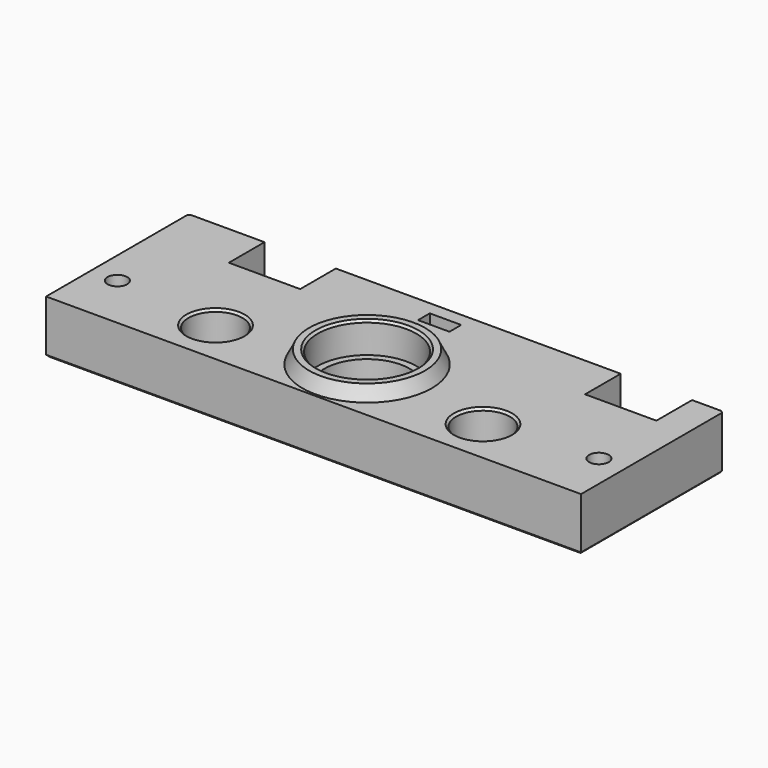
from build123d import *

# Parameters (mm, degrees)
PAD005_DEPTH    = 3.3
SKETCH_W        = 120
SKETCH_H        = 40
SKETCH_R        = 6.05
SKETCH_R_2      = 2.2
SKETCH_R_3      = 11.05
PAD_DEPTH       = 12
SKETCH001_W     = 16
SKETCH001_H     = 10
POCKET_DEPTH    = 12.001
SKETCH002_R     = 4.5
POCKET001_DEPTH = 3
SKETCH003_R     = 11.05
SKETCH003_R_2   = 9.5
SKETCH003_R_3   = 6.05
PAD001_DEPTH    = 2.1
SKETCH005_R     = 11.05
SKETCH005_R_2   = 9.5
PAD002_DEPTH    = 6
SKETCH006_R     = 13
SKETCH006_R_2   = 11.05
PAD003_DEPTH    = 3
SKETCH008_R     = 2.2
POCKET002_DEPTH = 9
CHAMFER_SIZE    = 0.5
CHAMFER001_SIZE = 0.5
SKETCH004_R     = 2.2
PAD006_DEPTH    = 0.3


with BuildPart() as obj1:
    # Sketch009 → Pad005 (new body)
    with BuildSketch(Plane.XZ.offset(-17)):
        Polygon((3.525, 3.96484), (3.525, 8.03516), (3.525, 12), (-3.525, 12), (-3.525, 8.03516), (-3.525, 3.96484), (0, 1.929681), align=None)
    extrude(amount=PAD005_DEPTH)


with BuildPart() as obj2:
    # Sketch007 → Revolution (revolve)
    with BuildSketch(Plane.XZ.offset(5)):
        Polygon((13, 15), (13, 12), (14.5, 12), align=None)
    revolve(axis=Axis((0, -5, 0), (0, 0, 1)))


with BuildPart() as obj3:
    # Sketch → Pad (new body)
    with BuildSketch(Plane.XY):
        Rectangle(SKETCH_W, SKETCH_H)
        with Locations((-30, -10)):
            Circle(SKETCH_R, mode=Mode.SUBTRACT)
        with Locations((30, -10)):
            Circle(SKETCH_R, mode=Mode.SUBTRACT)
        with Locations((-54, -7.5)):
            Circle(SKETCH_R_2, mode=Mode.SUBTRACT)
        with Locations((54, -7.5)):
            Circle(SKETCH_R_2, mode=Mode.SUBTRACT)
        with Locations((0, -5)):
            Circle(SKETCH_R_3, mode=Mode.SUBTRACT)
    extrude(amount=PAD_DEPTH)

    # Sketch001 → Pocket (cut, through all)
    with BuildSketch(Plane(origin=(0, 0, 0), x_dir=(1, 0, 0), z_dir=(0, 0, -1))):
        with Locations((-35, -15)):
            Rectangle(SKETCH001_W, SKETCH001_H)
        with Locations((44.9, -15)):
            Rectangle(SKETCH001_W, SKETCH001_H)
    extrude(amount=-POCKET_DEPTH, mode=Mode.SUBTRACT)

    # Sketch002 → Pocket001 (cut)
    with BuildSketch(Plane(origin=(0, 0, 0), x_dir=(1, 0, 0), z_dir=(0, 0, -1))):
        with Locations((-54, 7.5)):
            Circle(SKETCH002_R)
        with Locations((54, 7.5)):
            Circle(SKETCH002_R)
    extrude(amount=-POCKET001_DEPTH, mode=Mode.SUBTRACT)

    # Sketch003 → Pad001 (new body)
    with BuildSketch(Plane(origin=(0, 0, 0), x_dir=(1, 0, 0), z_dir=(0, 0, -1))):
        with Locations((0, 5)):
            Circle(SKETCH003_R)
        with Locations((0, 5)):
            Circle(SKETCH003_R_2, mode=Mode.SUBTRACT)
        with Locations((-30, 10)):
            Circle(SKETCH003_R_3)
        with Locations((30, 10)):
            Circle(SKETCH003_R_3)
    extrude(amount=-PAD001_DEPTH)

    # Sketch005 → Pad002 (new body)
    with BuildSketch(Plane.XY.offset(2.1)):
        with Locations((0, -5)):
            Circle(SKETCH005_R)
        with Locations((0, -5)):
            Circle(SKETCH005_R_2, mode=Mode.SUBTRACT)
    extrude(amount=PAD002_DEPTH)

    # Sketch006 → Pad003 (new body)
    with BuildSketch(Plane.XY.offset(12)):
        with Locations((0, -5)):
            Circle(SKETCH006_R)
        with Locations((0, -5)):
            Circle(SKETCH006_R_2, mode=Mode.SUBTRACT)
    extrude(amount=PAD003_DEPTH)

    # Fusion: union obj2
    add(obj2.part)

    # Sketch008 → Pocket002 (cut)
    with BuildSketch(Plane(origin=(0, 20, 0), x_dir=(-1, 0, 0), z_dir=(0, 1, 0))):
        with Locations((0, 6)):
            Circle(SKETCH008_R)
    extrude(amount=-POCKET002_DEPTH, mode=Mode.SUBTRACT)

    # Cut: cut obj1
    add(obj1.part, mode=Mode.SUBTRACT)

    # Chamfer
    chamfer_edges = [obj3.edges().sort_by_distance(p)[0] for p in [
        (23.95, -10, 12),
        (-11.05, -5, 15),
        (-36.05, -10, 12),
    ]]
    chamfer(chamfer_edges, length=CHAMFER_SIZE)

    # Chamfer001
    chamfer001_edges = [obj3.edges().sort_by_distance(p)[0] for p in [
        (0, -20, 0),
        (60, 0, 0),
        (56.45, 20, 0),
        (52.9, 15, 0),
        (44.9, 10, 0),
        (36.9, 15, 0),
        (4.95, 20, 0),
        (-27, 15, 0),
        (-35, 10, 0),
        (-43, 15, 0),
        (-51.5, 20, 0),
        (-60, 0, 0),
        (-60, 20, 6),
        (60, 20, 6),
    ]]
    chamfer(chamfer001_edges, length=CHAMFER001_SIZE)

    # Sketch004 → Pad006 (new body)
    with BuildSketch(Plane(origin=(0, 0, 3), x_dir=(1, 0, 0), z_dir=(0, 0, -1))):
        with Locations((-54, 7.5)):
            Circle(SKETCH004_R)
        with Locations((54, 7.5)):
            Circle(SKETCH004_R)
    extrude(amount=-PAD006_DEPTH)


solid = obj3.part
